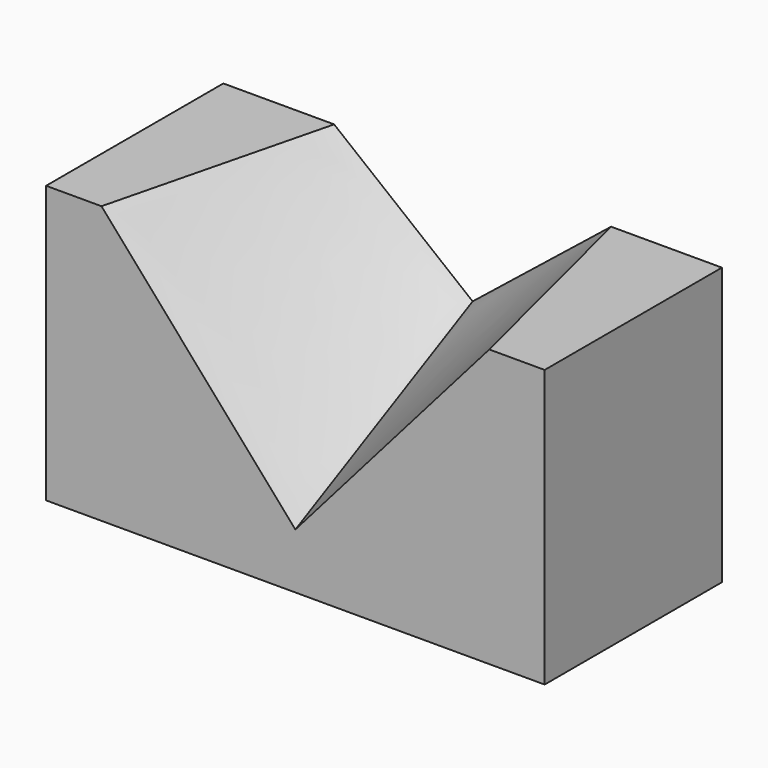
from build123d import *

# Parameters (mm, degrees)
F0_W     = 89.99982
F0_H     = 39.99992
F1_DEPTH = 49.9999


with BuildPart() as f1:
    # F0 (on Top) → F1 (new body)
    with BuildSketch(Plane.XY):
        with Locations((44.99991, 19.99996)):
            Rectangle(F0_W, F0_H)
    extrude(amount=F1_DEPTH)

    # F3 (on face) → F4 section 0
    with BuildSketch(Plane(origin=(0, 39.99992, 0), x_dir=(-1, 0, 0), z_dir=(0, 1, 0))):
        Polygon((-44.99991, 29.99994), (-19.99996, 49.9999), (-69.99986, 49.9999), align=None)
    # F2 (on face) → F4 section 1
    with BuildSketch(Plane.XZ):
        Polygon((79.99984, 49.9999), (9.99998, 49.9999), (44.99991, 9.99998), align=None)
    loft(mode=Mode.SUBTRACT)


solid = f1.part
